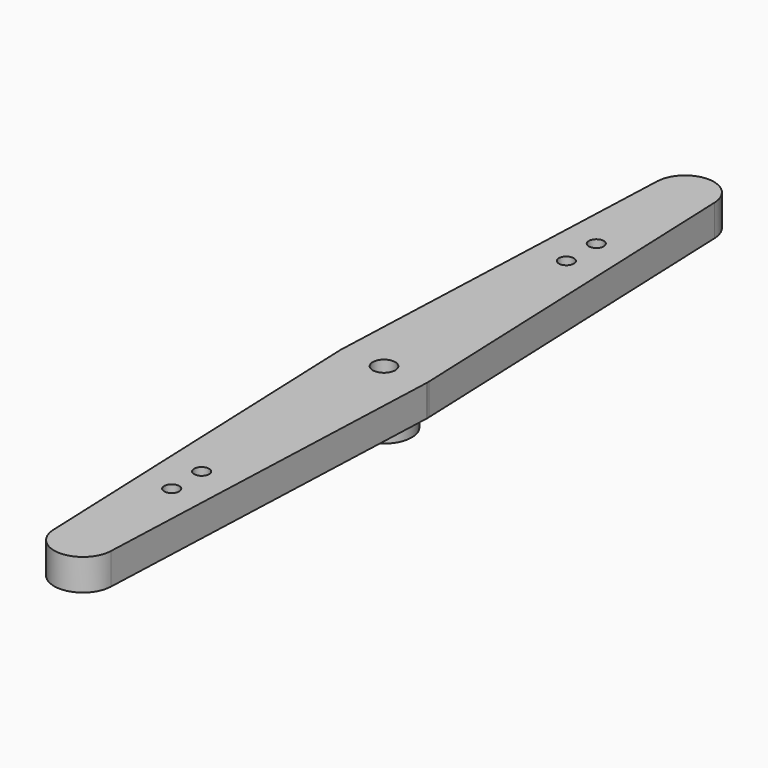
from build123d import *

# Parameters (mm, degrees)
F0_R     = 0.75
F0_R_2   = 0.5
F1_DEPTH = 2.1
F2_R     = 1.85
F2_R_2   = 0.75
F3_DEPTH = 1.5


with BuildPart() as f1:
    # F0 (on Top) → F1 (new body)
    with BuildSketch(Plane.XY):
        with BuildLine():
            ThreePointArc((2.9226915082, -0.1161866931), (2.9244228201, -0.0581048122), (2.925, 0))
            ThreePointArc((2.925, 0), (2.9244228201, 0.0581048122), (2.9226915082, 0.1161866931))
            ThreePointArc((2.9226915082, 0.1161866931), (0, 2.925), (-2.9226915082, 0.1161866931))
            ThreePointArc((-2.9226915082, 0.1161866931), (-2.925, 0), (-2.9226915082, -0.1161866931))
            ThreePointArc((-2.9226915082, -0.1161866931), (0, -2.925), (2.9226915082, -0.1161866931))
        make_face()
        Circle(F0_R, mode=Mode.SUBTRACT)
        with BuildLine():
            ThreePointArc((-2.9226915082, 0.1161866931), (0, 2.925), (2.9226915082, 0.1161866931))
            Line((2.9226915082, 0.1161866931), (1.9234807362, 25.2514647468))
            ThreePointArc((1.9234807362, 25.2514647468), (1.9246201466, 25.2132399191), (1.925, 25.175))
            ThreePointArc((1.925, 25.175), (-0.0382399191, 23.2503798534), (-1.9234807362, 25.2514647468))
            Line((-1.9234807362, 25.2514647468), (-2.9226915082, 0.1161866931))
        make_face()
        with Locations((0, 15.25)):
            Circle(F0_R_2, mode=Mode.SUBTRACT)
        with Locations((0, 17.75)):
            Circle(F0_R_2, mode=Mode.SUBTRACT)
        with BuildLine():
            Line((1.9234807362, -25.2514647468), (2.9226915082, -0.1161866931))
            ThreePointArc((2.9226915082, -0.1161866931), (0, -2.925), (-2.9226915082, -0.1161866931))
            Line((-2.9226915082, -0.1161866931), (-1.9234807362, -25.2514647468))
            ThreePointArc((-1.9234807362, -25.2514647468), (-0.0382399191, -23.2503798534), (1.925, -25.175))
            ThreePointArc((1.925, -25.175), (1.9246201466, -25.2132399191), (1.9234807362, -25.2514647468))
        make_face()
        with Locations((0, -17.75)):
            Circle(F0_R_2, mode=Mode.SUBTRACT)
        with Locations((0, -15.25)):
            Circle(F0_R_2, mode=Mode.SUBTRACT)
        with BuildLine():
            ThreePointArc((1.925, 25.175), (1.9246201466, 25.2132399191), (1.9234807362, 25.2514647468))
            ThreePointArc((1.9234807362, 25.2514647468), (0, 27.1), (-1.9234807362, 25.2514647468))
            ThreePointArc((-1.9234807362, 25.2514647468), (-0.0382399191, 23.2503798534), (1.925, 25.175))
        make_face()
        with BuildLine():
            ThreePointArc((-1.9234807362, -25.2514647468), (0, -27.1), (1.9234807362, -25.2514647468))
            ThreePointArc((1.9234807362, -25.2514647468), (1.9246201466, -25.2132399191), (1.925, -25.175))
            ThreePointArc((1.925, -25.175), (-0.0382399191, -23.2503798534), (-1.9234807362, -25.2514647468))
        make_face()
    extrude(amount=F1_DEPTH)

    # F2 (on face) → F3 (join)
    with BuildSketch(Plane.XY):
        Circle(F2_R)
        Circle(F2_R_2, mode=Mode.SUBTRACT)
    extrude(amount=-F3_DEPTH)


solid = f1.part
